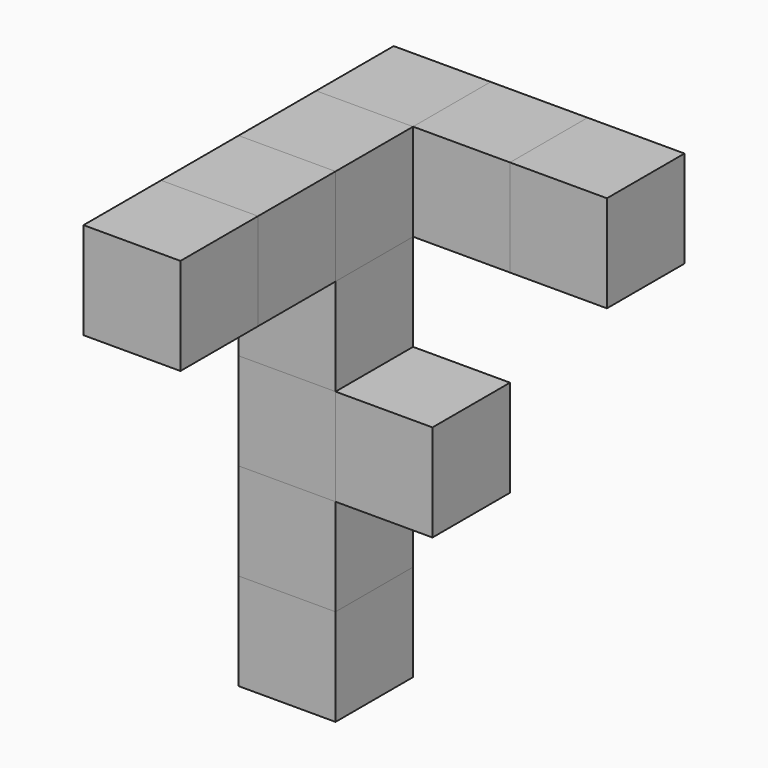
from build123d import *

# Parameters (mm, degrees)
BOX_W        = 10
BOX_H        = 10
BOX_DEPTH    = 10
BOX001_W     = 10
BOX001_H     = 10
BOX001_DEPTH = 10
BOX002_W     = 10
BOX002_H     = 10
BOX002_DEPTH = 10
BOX003_W     = 10
BOX003_H     = 10
BOX003_DEPTH = 10
BOX004_W     = 10
BOX004_H     = 10
BOX004_DEPTH = 10
BOX005_W     = 10
BOX005_H     = 10
BOX005_DEPTH = 10
BOX006_W     = 10
BOX006_H     = 10
BOX006_DEPTH = 10
BOX007_W     = 10
BOX007_H     = 10
BOX007_DEPTH = 10
BOX008_W     = 10
BOX008_H     = 10
BOX008_DEPTH = 10
BOX009_W     = 10
BOX009_H     = 10
BOX009_DEPTH = 10
BOX010_W     = 10
BOX010_H     = 10
BOX010_DEPTH = 10


with BuildPart() as cubo:
    # Box → Box (new body)
    with BuildSketch(Plane.XY):
        with Locations((5, 5)):
            Rectangle(BOX_W, BOX_H)
    extrude(amount=BOX_DEPTH)


with BuildPart() as cubo001:
    # Box001 → Box001 (new body)
    with BuildSketch(Plane.XY.offset(10)):
        with Locations((5, 5)):
            Rectangle(BOX001_W, BOX001_H)
    extrude(amount=BOX001_DEPTH)


with BuildPart() as cubo002:
    # Box002 → Box002 (new body)
    with BuildSketch(Plane.XY.offset(20)):
        with Locations((5, 5)):
            Rectangle(BOX002_W, BOX002_H)
    extrude(amount=BOX002_DEPTH)


with BuildPart() as cubo003:
    # Box003 → Box003 (new body)
    with BuildSketch(Plane.XY.offset(30)):
        with Locations((5, 5)):
            Rectangle(BOX003_W, BOX003_H)
    extrude(amount=BOX003_DEPTH)


with BuildPart() as cubo004:
    # Box004 → Box004 (new body)
    with BuildSketch(Plane.XY.offset(40)):
        with Locations((5, 5)):
            Rectangle(BOX004_W, BOX004_H)
    extrude(amount=BOX004_DEPTH)


with BuildPart() as cubo005:
    # Box005 → Box005 (new body)
    with BuildSketch(Plane(origin=(10, 0, 20), x_dir=(1, 0, 0), z_dir=(0, 0, 1))):
        with Locations((5, 5)):
            Rectangle(BOX005_W, BOX005_H)
    extrude(amount=BOX005_DEPTH)


with BuildPart() as cubo006:
    # Box006 → Box006 (new body)
    with BuildSketch(Plane(origin=(0, -10, 40), x_dir=(1, 0, 0), z_dir=(0, 0, 1))):
        with Locations((5, 5)):
            Rectangle(BOX006_W, BOX006_H)
    extrude(amount=BOX006_DEPTH)


with BuildPart() as cubo007:
    # Box007 → Box007 (new body)
    with BuildSketch(Plane(origin=(0, -20, 40), x_dir=(1, 0, 0), z_dir=(0, 0, 1))):
        with Locations((5, 5)):
            Rectangle(BOX007_W, BOX007_H)
    extrude(amount=BOX007_DEPTH)


with BuildPart() as cubo008:
    # Box008 → Box008 (new body)
    with BuildSketch(Plane(origin=(0, 10, 40), x_dir=(1, 0, 0), z_dir=(0, 0, 1))):
        with Locations((5, 5)):
            Rectangle(BOX008_W, BOX008_H)
    extrude(amount=BOX008_DEPTH)


with BuildPart() as cubo009:
    # Box009 → Box009 (new body)
    with BuildSketch(Plane(origin=(10, 10, 40), x_dir=(1, 0, 0), z_dir=(0, 0, 1))):
        with Locations((5, 5)):
            Rectangle(BOX009_W, BOX009_H)
    extrude(amount=BOX009_DEPTH)


with BuildPart() as cubo010:
    # Box010 → Box010 (new body)
    with BuildSketch(Plane(origin=(20, 10, 40), x_dir=(1, 0, 0), z_dir=(0, 0, 1))):
        with Locations((5, 5)):
            Rectangle(BOX010_W, BOX010_H)
    extrude(amount=BOX010_DEPTH)


solid = Compound([cubo.part, cubo001.part, cubo002.part, cubo003.part, cubo004.part, cubo005.part, cubo006.part, cubo007.part, cubo008.part, cubo009.part, cubo010.part])
